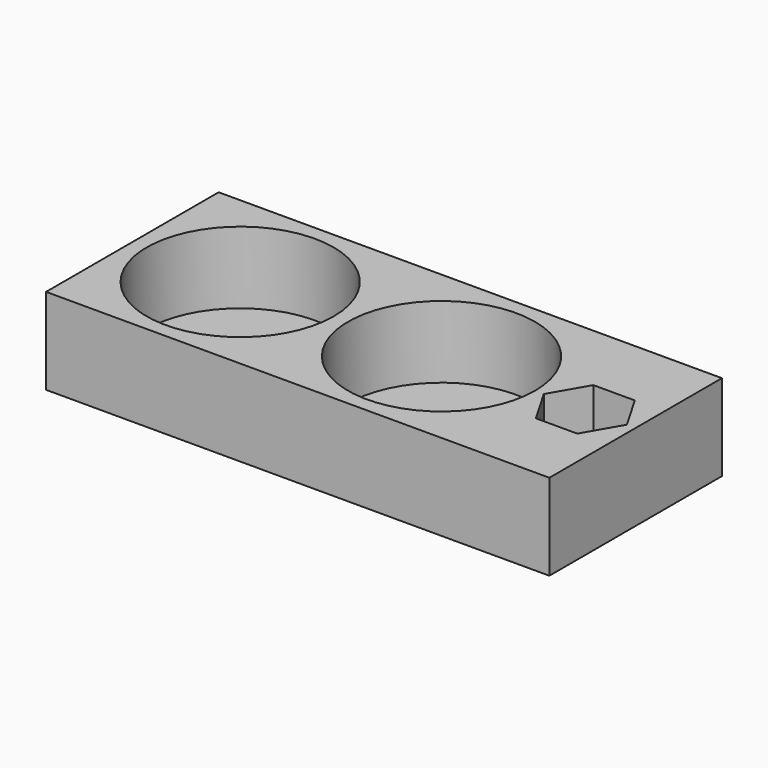
from build123d import *

# Parameters (mm, degrees)
F0_W     = 175
F0_H     = 75
F1_DEPTH = 30
F2_R     = 32.5
F3_DEPTH = 25


with BuildPart() as f1:
    # F0 (on Top) → F1 (new body)
    with BuildSketch(Plane.XY):
        Rectangle(F0_W, F0_H)
    extrude(amount=F1_DEPTH)

    # F2 (on face) → F3 (cut)
    with BuildSketch(Plane.XY.offset(30)):
        with Locations((-50, 0)):
            Circle(F2_R)
        with Locations((20, 0)):
            Circle(F2_R)
        Polygon((77.216878, -12.5), (84.433757, 0), (77.216878, 12.5), (62.783122, 12.5), (55.566243, 0), (62.783122, -12.5), align=None)
    extrude(amount=-F3_DEPTH, mode=Mode.SUBTRACT)


solid = f1.part
